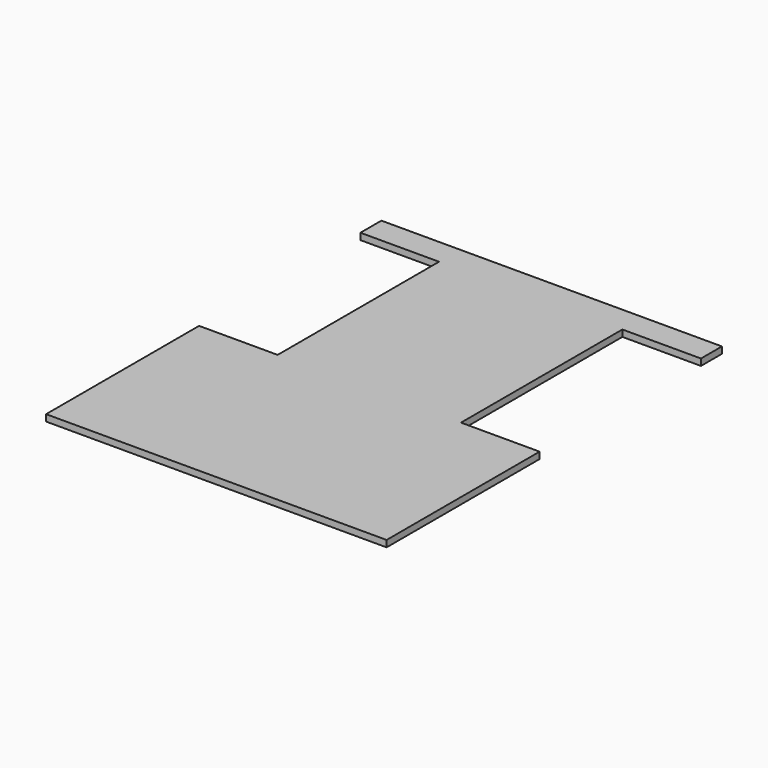
from build123d import *

# Parameters (mm, degrees)
F0_W     = 16.9926
F0_H     = 23.0124
F1_DEPTH = 3.175


with BuildPart() as f1:
    # F0 (on Top) → F1 (new body)
    with BuildSketch(Plane.XY):
        Polygon((-38.1, 64.095948), (-38.1, 58.695937), (-38.1, 51.395948), (0, 51.395948), (0, 24.957037), (16.9926, 24.957037), (16.9926, 1.944637), (0, 1.944637), (0, -46.394052), (-38.1, -46.394052), (-38.1, -73.704052), (-38.1, -101.004052), (12.7, -101.004052), (12.7, -126.404052), (-38.1, -126.404052), (-38.1, -139.104052), (127, -139.104052), (127, -126.404052), (76.2, -126.404052), (76.2, -101.004052), (127, -101.004052), (127, -73.704052), (127, -46.394052), (88.9, -46.394052), (88.9, 1.944637), (71.9074, 1.944637), (71.9074, 24.957037), (88.9, 24.957037), (88.9, 51.395948), (127, 51.395948), (127, 58.695937), (127, 64.095948), align=None)
        with Locations((80.4037, 13.450837)):
            Rectangle(F0_W, F0_H)
        with Locations((8.4963, 13.450837)):
            Rectangle(F0_W, F0_H)
        Polygon((12.7, -101.004052), (-38.1, -101.004052), (-38.1, -113.704052), (-38.1, -126.404052), (12.7, -126.404052), align=None)
        Polygon((127, -113.704052), (127, -101.004052), (76.2, -101.004052), (76.2, -126.404052), (127, -126.404052), align=None)
    extrude(amount=F1_DEPTH)


solid = f1.part
